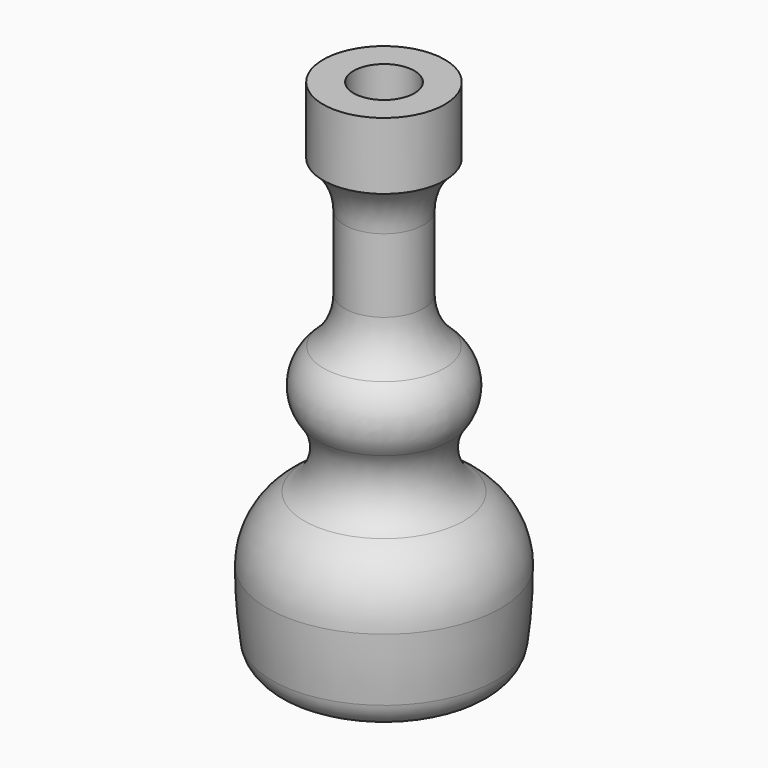
from build123d import *


with BuildPart() as f1:
    # F0 (on Front) → F1 (revolve)
    with BuildSketch(Plane.XZ):
        with BuildLine():
            Line((0, 150), (0, 0))
            Line((0, 0), (27, 0))
            ThreePointArc((27, 0), (33.59373, 2.48184), (36.914543, 8.695455))
            ThreePointArc((36.914543, 8.695455), (37.96087, 19.324896), (38.310143, 30))
            ThreePointArc((38.310143, 30), (35.084888, 42.282528), (26.241304, 51.395913))
            ThreePointArc((26.241304, 51.395913), (19.275152, 61.37359), (22, 73.233461))
            ThreePointArc((22, 73.233461), (24.917174, 83.807606), (19.857143, 93.539951))
            ThreePointArc((19.857143, 93.539951), (14.79482, 100.334486), (13, 108.615273))
            Line((13, 108.615273), (13, 132.801316))
            ThreePointArc((13, 132.801316), (14.834098, 141.167916), (20, 148))
            Line((20, 148), (20, 170))
            Line((20, 170), (10, 170))
            Line((10, 170), (10, 150))
            Line((10, 150), (0, 150))
        make_face()
    revolve(axis=Axis((0, 0, 91.387972), (0, 0, 1)))


solid = f1.part
